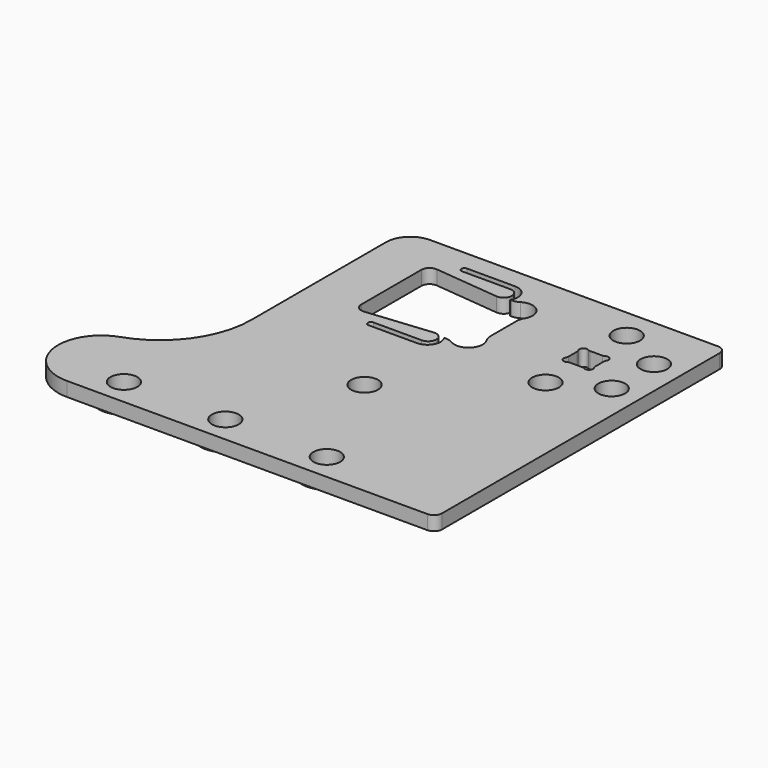
from build123d import *

# Parameters (mm, degrees)
SKETCH_R     = 6.6
PAD_DEPTH    = 8
SKETCH001_R  = 12.199475
POCKET_DEPTH = 1


with BuildPart() as part:
    # Sketch → Pad (new body)
    with BuildSketch(Plane.XY):
        with BuildLine():
            Line((-4, 40), (-146, 40))
            ThreePointArc((-146, 40), (-154.485281, 36.485281), (-158, 28))
            Line((-158, -55), (-158, 28))
            ThreePointArc((-188.565904, -97.622258), (-166.431336, -81.224661), (-158, -55))
            ThreePointArc((-188.565904, -97.622258), (-202.717412, -121.203739), (-181.74971, -139))
            Line((-181.74971, -139), (-4, -139))
            ThreePointArc((-4, -139), (-1.171573, -137.828427), (0, -135))
            Line((0, 36), (0, -135))
            ThreePointArc((0, 36), (-1.171573, 38.828427), (-4, 40))
        make_face()
        with Locations((-37, 25)):
            Circle(SKETCH_R, mode=Mode.SUBTRACT)
        with Locations((-37, -25)):
            Circle(SKETCH_R, mode=Mode.SUBTRACT)
        with Locations((-14, 13)):
            Circle(SKETCH_R, mode=Mode.SUBTRACT)
        with Locations((-14, -13)):
            Circle(SKETCH_R, mode=Mode.SUBTRACT)
        with Locations((-164, -126)):
            Circle(SKETCH_R, mode=Mode.SUBTRACT)
        with Locations((-114, -126)):
            Circle(SKETCH_R, mode=Mode.SUBTRACT)
        with Locations((-64, -126)):
            Circle(SKETCH_R, mode=Mode.SUBTRACT)
        with Locations((-90.2, -70)):
            Circle(SKETCH_R, mode=Mode.SUBTRACT)
        with BuildLine():
            Line((-40.101765, 6.2), (-33.898235, 6.2))
            ThreePointArc((-33.898235, 6.2), (-33.357039, 6.274615), (-32.856224, 6.492893))
            ThreePointArc((-30.107107, 3.743776), (-30.4, 6.2), (-32.856224, 6.492893))
            ThreePointArc((-30.107107, 3.743776), (-30.325385, 3.242961), (-30.4, 2.701765))
            Line((-30.4, 2.701765), (-30.4, -2.701765))
            ThreePointArc((-30.4, -2.701765), (-30.325385, -3.242961), (-30.107107, -3.743776))
            ThreePointArc((-32.856224, -6.492893), (-30.4, -6.2), (-30.107107, -3.743776))
            ThreePointArc((-32.856224, -6.492893), (-33.357039, -6.274615), (-33.898235, -6.2))
            Line((-33.898235, -6.2), (-40.101765, -6.2))
            ThreePointArc((-40.101765, -6.2), (-40.642961, -6.274615), (-41.143776, -6.492893))
            ThreePointArc((-43.892893, -3.743776), (-43.6, -6.2), (-41.143776, -6.492893))
            ThreePointArc((-43.892893, -3.743776), (-43.674615, -3.242961), (-43.6, -2.701765))
            Line((-43.6, -2.701765), (-43.6, 2.701765))
            ThreePointArc((-43.6, 2.701765), (-43.674615, 3.242961), (-43.892893, 3.743776))
            ThreePointArc((-41.143776, 6.492893), (-43.6, 6.2), (-43.892893, 3.743776))
            ThreePointArc((-41.143776, 6.492893), (-40.642961, 6.274615), (-40.101765, 6.2))
        make_face(mode=Mode.SUBTRACT)
        with BuildLine():
            Line((-90.7, 20.3), (-89.943823, 20.3))
            ThreePointArc((-89.943823, 20.3), (-88.049637, 20.561153), (-86.296785, 21.325126))
            ThreePointArc((-76.674874, 11.703215), (-77.700001, 20.3), (-86.296785, 21.325126))
            ThreePointArc((-76.674874, 11.703215), (-77.438847, 9.950364), (-77.7, 8.056178))
            Line((-77.7, 8.056178), (-77.7, -8.056178))
            ThreePointArc((-77.7, -8.056178), (-77.438847, -9.950365), (-76.674874, -11.703216))
            ThreePointArc((-86.296785, -21.325126), (-77.7, -20.3), (-76.674874, -11.703216))
            ThreePointArc((-86.296785, -21.325126), (-88.049636, -20.561153), (-89.943822, -20.3))
            Line((-90.7, -20.3), (-89.943822, -20.3))
            ThreePointArc((-96.2, -30.280093), (-90.502363, -26.91448), (-90.7, -20.3))
            Line((-96.2, -30.280093), (-120, -30.280093))
            ThreePointArc((-120, -27.280093), (-121.5, -28.780093), (-120, -30.280093))
            Line((-96.2, -27.280093), (-120, -27.280093))
            ThreePointArc((-96.2, -27.280093), (-92.20498, -23.080559), (-96.598572, -19.3))
            Line((-128.601428, -22.504808), (-96.598572, -19.3))
            ThreePointArc((-133, -18.524715), (-131.683814, -21.490713), (-128.601428, -22.504808))
            Line((-133, 18.524715), (-133, -18.524715))
            ThreePointArc((-128.601428, 22.504808), (-131.683814, 21.490713), (-133, 18.524715))
            Line((-128.601428, 22.504808), (-96.598572, 19.3))
            ThreePointArc((-96.598572, 19.3), (-92.20498, 23.080559), (-96.2, 27.280093))
            Line((-96.2, 27.280093), (-120, 27.280093))
            ThreePointArc((-120, 30.280093), (-121.5, 28.780093), (-120, 27.280093))
            Line((-96.2, 30.280093), (-120, 30.280093))
            ThreePointArc((-90.7, 20.3), (-90.502363, 26.91448), (-96.2, 30.280093))
        make_face(mode=Mode.SUBTRACT)
    extrude(amount=PAD_DEPTH)

    # Sketch001 → Pocket (cut)
    with BuildSketch(Plane.XY):
        Polygon((5.517247, 44.094818), (5.517247, -142.525909), (-211.650055, -142.525909), (-211.650055, -44.465102), (-211.650055, 44.094818), align=None)
        with Locations((-37, -25)):
            Circle(SKETCH001_R, mode=Mode.SUBTRACT)
        with Locations((-14, 13)):
            Circle(SKETCH001_R, mode=Mode.SUBTRACT)
        with Locations((-14, -13)):
            Circle(SKETCH001_R, mode=Mode.SUBTRACT)
        with Locations((-37, 25)):
            Circle(SKETCH001_R, mode=Mode.SUBTRACT)
        with Locations((-114, -126)):
            Circle(SKETCH001_R, mode=Mode.SUBTRACT)
        with Locations((-90.2, -70)):
            Circle(SKETCH001_R, mode=Mode.SUBTRACT)
        with Locations((-64, -126)):
            Circle(SKETCH001_R, mode=Mode.SUBTRACT)
        with Locations((-164, -126)):
            Circle(SKETCH001_R, mode=Mode.SUBTRACT)
        with Locations((-37, 0)):
            Circle(SKETCH001_R, mode=Mode.SUBTRACT)
    extrude(amount=POCKET_DEPTH, mode=Mode.SUBTRACT)


solid = part.part
